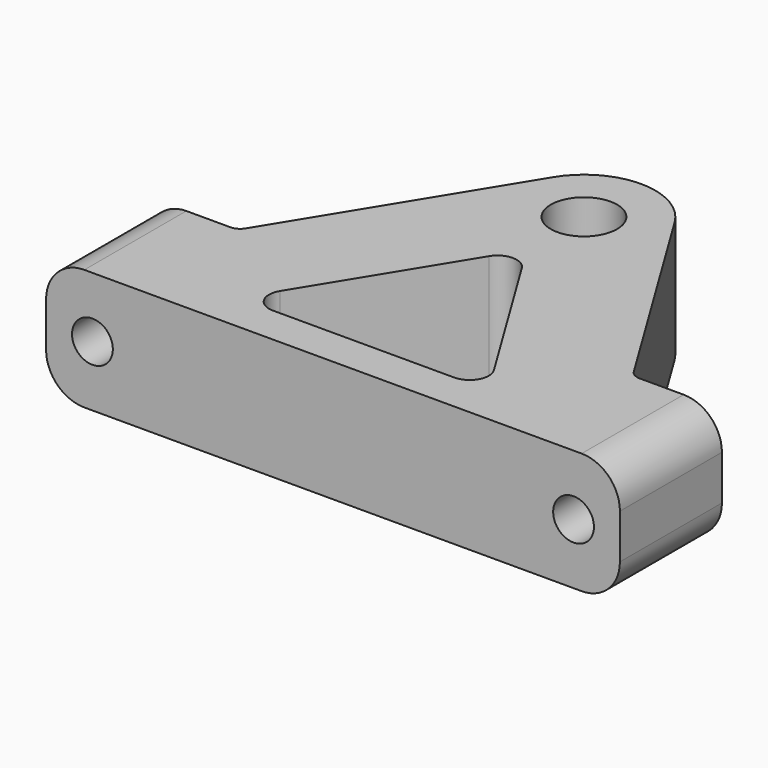
from build123d import *

# Parameters (mm, degrees)
SKETCH_R           = 2.6
PAD_DEPTH          = 9.5
SKETCH001_R        = 1.6
POCKET_DEPTH       = 10.001
POCKET_FACE8_W     = 45
POCKET_FACE8_H     = 9.5
POCKET_FACE8_R     = 1.6
POCKET001_DEPTH    = 1.5
PAD001_DEPTH       = 45
PAD001_FACE15_R    = 1.6
POCKET002_DEPTH    = 1.501
POCKET003_DEPTH    = 9.501
FILLET_R           = 1.5
POCKET004_DEPTH    = 45.001
POCKET004_FACE12_W = 45
POCKET004_FACE12_H = 9.5
POCKET004_FACE12_R = 1.6
PAD002_DEPTH       = 1.5
FILLET001_R        = 3
FILLET002_R        = 1


with BuildPart() as part:
    # Sketch → Pad (new body)
    with BuildSketch(Plane.XY):
        with BuildLine():
            Line((22.5, -24.6), (-22.5, -24.6))
            Line((-22.5, -24.6), (-22.5, -14.6))
            Line((-22.5, -14.6), (-15.5, -14.6))
            Line((-15.5, -14.6), (-4.77656, 2.923094))
            ThreePointArc((4.77656, 2.923094), (0, 5.6), (-4.77656, 2.923094))
            Line((15.5, -14.6), (4.77656, 2.923094))
            Line((15.5, -14.6), (22.5, -14.6))
            Line((22.5, -14.6), (22.5, -24.6))
        make_face()
        Circle(SKETCH_R, mode=Mode.SUBTRACT)
    extrude(amount=PAD_DEPTH)

    # Sketch001 (on Face1 of Pad) → Pocket (cut, through all)
    with BuildSketch(Plane(origin=(0, -14.6, 0), x_dir=(-1, 0, 0), z_dir=(0, 1, 0))):
        with Locations((-18.865231, 4.75)):
            Circle(SKETCH001_R)
        with Locations((18.865231, 4.75)):
            Circle(SKETCH001_R)
    extrude(amount=-POCKET_DEPTH, mode=Mode.SUBTRACT)

    # Pocket Face8 → Pocket001 (cut)
    with BuildSketch(Plane(origin=(0, -24.6, 4.75), x_dir=(-1, 0, 0), z_dir=(0, -1, 0))):
        Rectangle(POCKET_FACE8_W, POCKET_FACE8_H)
        with Locations((-18.865231, 0)):
            Circle(POCKET_FACE8_R, mode=Mode.SUBTRACT)
        with Locations((18.865231, 0)):
            Circle(POCKET_FACE8_R, mode=Mode.SUBTRACT)
    extrude(amount=-POCKET001_DEPTH, mode=Mode.SUBTRACT)

    # Sketch002 (on Face9 of Pocket001) → Pad001 (join)
    with BuildSketch(Plane(origin=(-22.5, 0, 0), x_dir=(0, -1, 0), z_dir=(-1, 0, 0))):
        Polygon((23.1, 9.5), (23.1, 0), (24.6, 2.25), (24.6, 7.25), align=None)
    extrude(amount=-PAD001_DEPTH)

    # Pad001 Face15 → Pocket002 (cut, through all)
    with BuildSketch(Plane(origin=(18.865231, -23.1, 4.75), x_dir=(1, 0, 0), z_dir=(0, 1, 0))):
        Circle(PAD001_FACE15_R)
    extrude(amount=-POCKET002_DEPTH, mode=Mode.SUBTRACT)

    # Sketch003 (on Face3 of Pocket002) → Pocket003 (cut, through all)
    with BuildSketch(Plane(origin=(0, 0, 0), x_dir=(1, 0, 0), z_dir=(0, 0, -1))):
        Polygon((0, 5.6), (-9.791367, 21.6), (9.791367, 21.6), align=None)
    extrude(amount=-POCKET003_DEPTH, mode=Mode.SUBTRACT)

    # Fillet
    fillet_edges = [part.edges().sort_by_distance(p)[0] for p in [
        (9.791367, -21.6, 4.75),
        (-9.791367, -21.6, 4.75),
        (0, -5.6, 4.75),
    ]]
    fillet(fillet_edges, radius=FILLET_R)

    # Fillet Face19 → Pocket004 (cut, through all)
    with BuildSketch(Plane(origin=(22.5, -23.772414, 4.75), x_dir=(0, -1, 0), z_dir=(1, 0, 0))):
        Polygon((-0.672414, 4.75), (-0.672414, -4.75), (0.827586, -2.5), (0.827586, 2.5), align=None)
    extrude(amount=-POCKET004_DEPTH, mode=Mode.SUBTRACT)

    # Pocket004 Face12 → Pad002 (add)
    with BuildSketch(Plane(origin=(0, -23.1, 4.75), x_dir=(-1, 0, 0), z_dir=(0, -1, 0))):
        Rectangle(POCKET004_FACE12_W, POCKET004_FACE12_H)
        with Locations((18.865231, 0)):
            Circle(POCKET004_FACE12_R, mode=Mode.SUBTRACT)
        with Locations((-18.865231, 0)):
            Circle(POCKET004_FACE12_R, mode=Mode.SUBTRACT)
    extrude(amount=PAD002_DEPTH)

    # Fillet001
    fillet001_edges = [part.edges().sort_by_distance(p)[0] for p in [
        (22.5, -18.85, 9.5),
        (22.5, -18.85, 0),
        (-22.5, -18.85, 9.5),
        (-22.5, -18.85, 0),
    ]]
    fillet(fillet001_edges, radius=FILLET001_R)

    # Fillet002
    fillet002_edges = [part.edges().sort_by_distance(p)[0] for p in [
        (15.5, -14.6, 4.75),
        (-15.5, -14.6, 4.75),
    ]]
    fillet(fillet002_edges, radius=FILLET002_R)


solid = part.part
